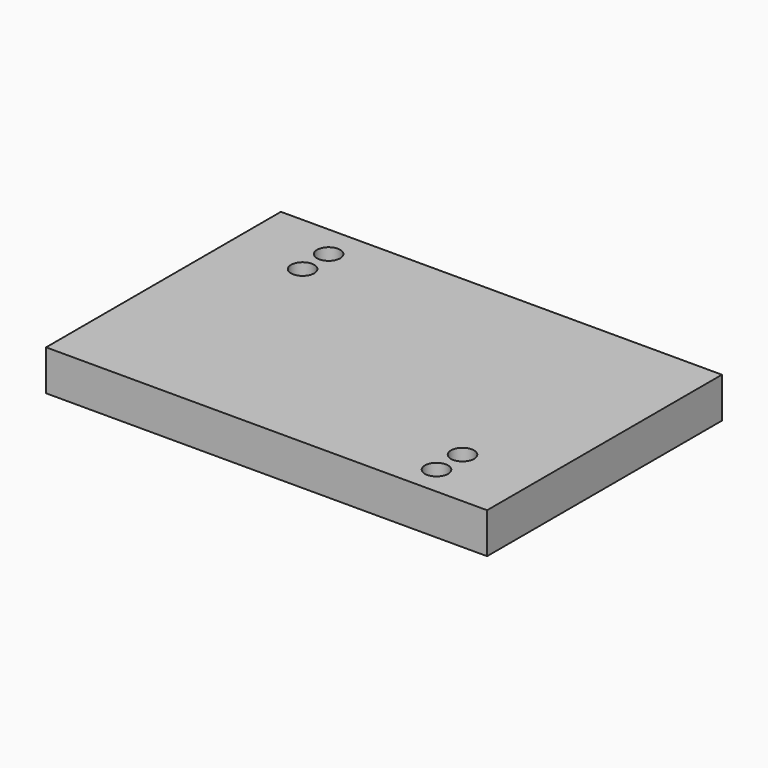
from build123d import *

# Parameters (mm, degrees)
F0_W           = 152.5
F0_H           = 101.5
F1_DEPTH       = 14
F2_D           = 4.2
F2_CBORE_D     = 8
F2_CBORE_DEPTH = 5.5
F4_D           = 4
F4_DEPTH       = 3.5
F4_TIP         = 1.2017212381


with BuildPart() as f1:
    # F0 (on Top) → F1 (new body)
    with BuildSketch(Plane.XY):
        with Locations((76.25, 50.75)):
            Rectangle(F0_W, F0_H)
    extrude(amount=-F1_DEPTH)

    # F2 (through all)
    with Locations(Plane.XY):
        with Locations((127, 10), (127, 21.25), (25.5, 90.25), (25.5, 79)):
            CounterBoreHole(F2_D / 2, F2_CBORE_D / 2, F2_CBORE_DEPTH)

    # F4
    with Locations(Plane(origin=(0, 0, -14), x_dir=(1, 0, 0), z_dir=(0, 0, -1))):
        with Locations((25.5, -10.5), (127, -81.5)):
            Hole(F4_D / 2, depth=F4_DEPTH)
            with Locations((0, 0, -(F4_DEPTH + F4_TIP / 2))):  # 118° drill point
                Cone(0, F4_D / 2, F4_TIP, mode=Mode.SUBTRACT)


solid = f1.part
